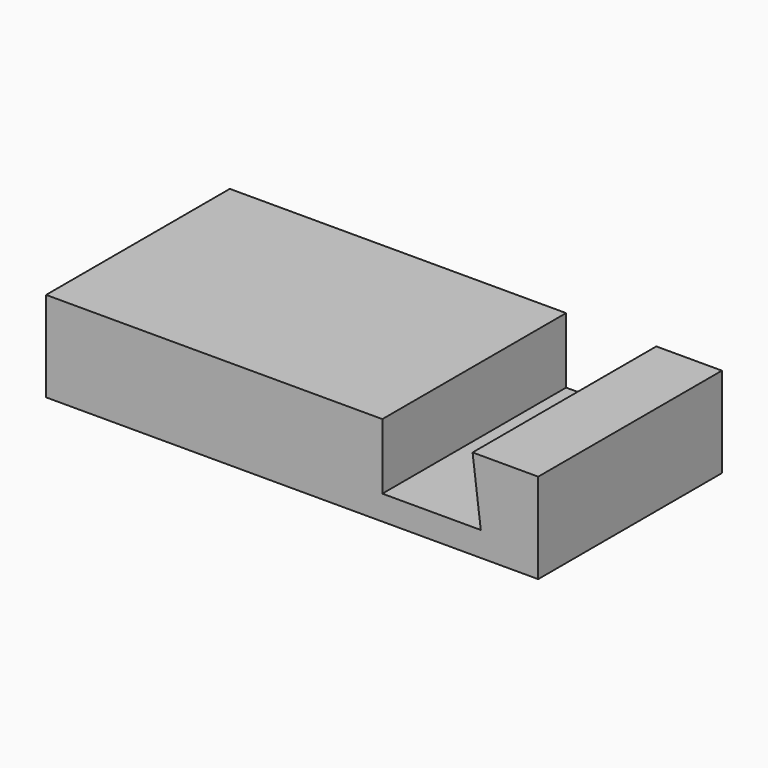
from build123d import *

# Parameters (mm, degrees)
EXTRUDE_DEPTH    = 28
EXTRUDE001_DEPTH = 28


with BuildPart() as extrude_body:
    # Sketch → Extrude (new body)
    with BuildSketch(Plane.XZ):
        Polygon((0, 0), (60, 0), (60, 11), (52, 11), (53, 3), (41, 3), (41, 11), (0, 11), align=None)
    extrude(amount=EXTRUDE_DEPTH)


with BuildPart() as extrude001:
    # Sketch → Extrude001 (new body)
    with BuildSketch(Plane.XZ):
        Polygon((0, 0), (60, 0), (60, 11), (52, 11), (53, 3), (41, 3), (41, 11), (0, 11), align=None)
    extrude(amount=EXTRUDE001_DEPTH)


solid = Compound([extrude_body.part, extrude001.part])
